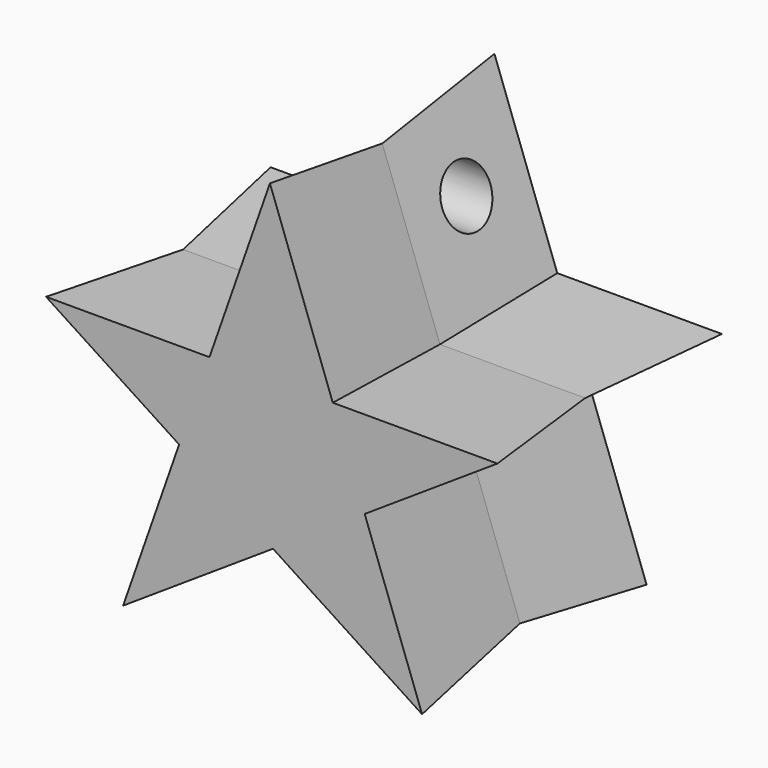
from build123d import *

# Parameters (mm, degrees)
F1_DEPTH      = 25
F1_TAPER      = -3
F1_DEPTH_BACK = 25
F1_TAPER_BACK = -3
F2_R          = 5
F3_DEPTH      = 64.4232910442
F4_T          = -2.5


with BuildPart() as f1:
    # F0 (on Front) → F1 (new body, two sides)
    with BuildSketch(Plane.XZ) as f1_sk:
        Polygon((-39.1417309887, 25.5272132741), (-48.1805629012, -0.3036052134), (-23.9919008846, 15.6468902949), align=None)
        Polygon((-60.0148783997, 39.1401341185), (-39.1417309887, 25.5272132741), (-34.3782387514, 39.1401341185), align=None)
        Polygon((-34.3782387514, 39.1401341185), (-39.1417309887, 25.5272132741), (-23.9919008846, 15.6468902949), (-9.2397909419, 25.3747315132), (-14.2522357923, 39.1401341185), align=None)
        Polygon((-9.2397909419, 25.3747315132), (-23.9919008846, 15.6468902949), (0, 0), align=None)
        Polygon((-24.5154834056, 67.3255286019), (-34.3782387514, 39.1401341185), (-14.2522357923, 39.1401341185), align=None)
        Polygon((-14.2522357923, 39.1401341185), (-9.2397909419, 25.3747315132), (11.6352139111, 39.1401341185), align=None)
    extrude(amount=F1_DEPTH, taper=F1_TAPER)
    extrude(f1_sk.sketch, amount=-F1_DEPTH_BACK, taper=F1_TAPER_BACK)

    # F2 (on Right) → F3 (cut, through all)
    with BuildSketch(Plane.YZ):
        with Locations((12.5, 55.5954657973)):
            Circle(F2_R)
    extrude(amount=-F3_DEPTH, mode=Mode.SUBTRACT)

    # F4
    f4_openings = [f1.faces().sort_by_distance(p)[0] for p in [
        (-24.22548, 25, 29.134543),
    ]]
    offset(amount=F4_T, openings=f4_openings, kind=Kind.INTERSECTION)


solid = f1.part
